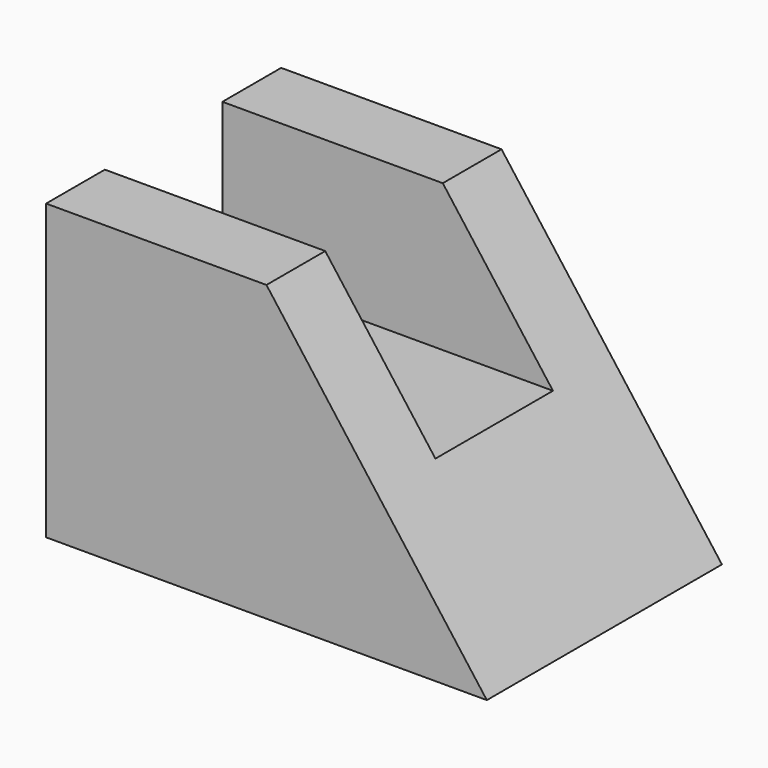
from build123d import *

# Parameters (mm, degrees)
F1_DEPTH = 38.1
F3_DEPTH = 25.4


with BuildPart() as f1:
    # F0 (on Right) → F1 (new body)
    with BuildSketch(Plane.YZ):
        Polygon((0, 25.4), (0, 0), (25.4, 0), (25.4, 25.4), (19.05, 25.4), (19.05, 12.7), (6.35, 12.7), (6.35, 25.4), align=None)
    extrude(amount=F1_DEPTH)

    # F2 (on Front) → F3 (cut)
    with BuildSketch(Plane.XZ):
        Polygon((38.1, 25.4), (19.05, 25.4), (38.1, 0), align=None)
    extrude(amount=-F3_DEPTH, mode=Mode.SUBTRACT)


solid = f1.part
